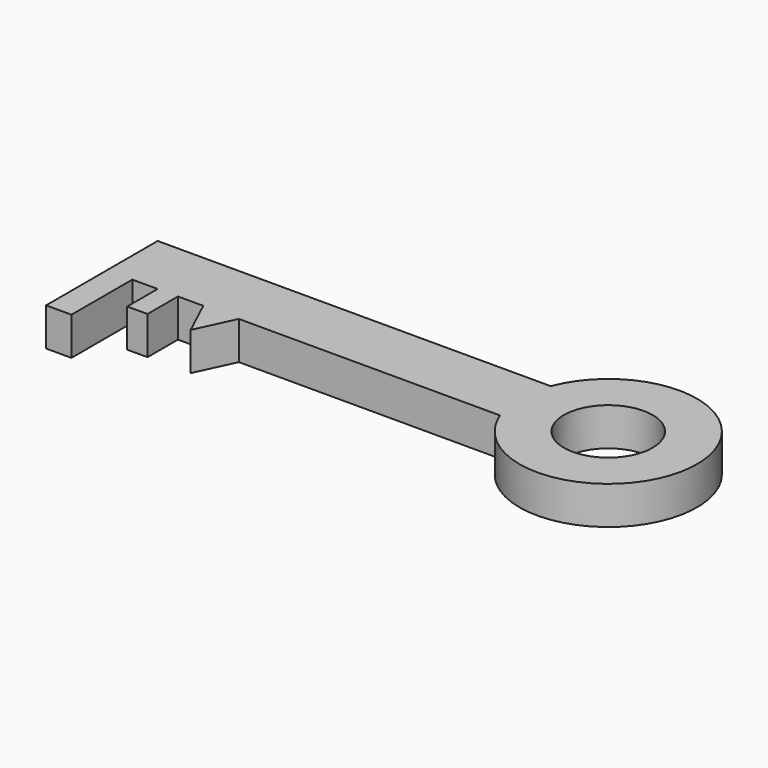
from build123d import *

# Parameters (mm, degrees)
F0_R     = 17.5
F1_DEPTH = 15


with BuildPart() as f1:
    # F0 (on Top) → F1 (new body)
    with BuildSketch(Plane.XY):
        with BuildLine():
            Line((-88.179415, -2.007341), (-88.179415, 27.992659))
            Line((-88.179415, 27.992659), (-78.179415, 27.992659))
            Line((-78.179415, 27.992659), (-78.179415, 12.992659))
            Line((-78.179415, 12.992659), (-70.179415, 12.992659))
            Line((-70.179415, 12.992659), (-70.179415, 27.992659))
            Line((-70.179415, 27.992659), (-60.179415, 27.992659))
            Line((-60.179415, 27.992659), (-53.179415, 12.992659))
            Line((-53.179415, 12.992659), (-46.179415, 27.992659))
            Line((-46.179415, 27.992659), (56.820585, 27.992659))
            ThreePointArc((56.820585, 27.992659), (124.512327, 40.492659), (56.820585, 52.992659))
            Line((56.820585, 52.992659), (-98.179415, 52.992659))
            Line((-98.179415, 52.992659), (-98.179415, 27.992659))
            Line((-98.179415, 27.992659), (-98.179415, -2.007341))
            Line((-98.179415, -2.007341), (-88.179415, -2.007341))
        make_face()
        with Locations((89.512327, 40.492659)):
            Circle(F0_R, mode=Mode.SUBTRACT)
    extrude(amount=F1_DEPTH)


solid = f1.part
